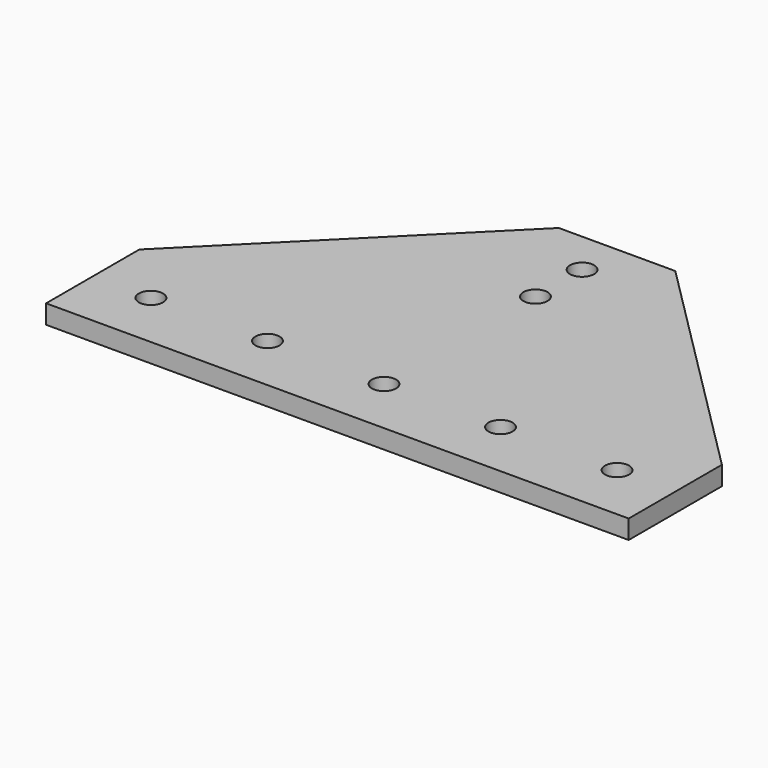
from build123d import *

# Parameters (mm, degrees)
F1_DEPTH = 6.5
F3_D     = 8.3


with BuildPart() as f1:
    # F0 (on Top) → F1 (new body)
    with BuildSketch(Plane.XY):
        Polygon((-20, 100), (-100, 20), (-100, -20), (100, -20), (100, 20), (20, 100), align=None)
    extrude(amount=F1_DEPTH)

    # F3 (through all)
    with Locations(Plane.XY.offset(6.5)):
        with Locations((0, 85), (0, 65), (-40, 0), (-80, 0), (0, 0), (40, 0), (80, 0)):
            Hole(F3_D / 2)


solid = f1.part
